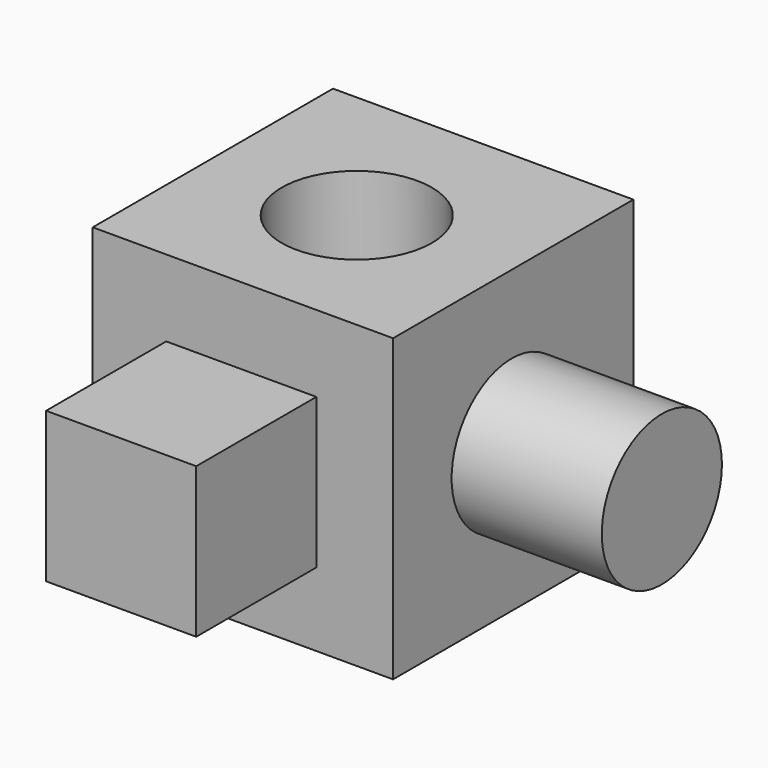
from build123d import *

# Parameters (mm, degrees)
F0_W      = 50.8
F0_H      = 50.8
F1_DEPTH  = 76.2
F2_DEPTH  = 25.4
F3_R      = 12.7
F4_DEPTH  = 25.4
F5_DEPTH  = 25.4
F6_W      = 25.4
F6_H      = 25.4
F7_DEPTH  = 25.4
F8_DEPTH  = 25.4
F9_DEPTH  = 25.4
F10_R     = 12.7
F11_DEPTH = 25.4


with BuildPart() as f1:
    # F0 (on Front) → F1 (new body)
    with BuildSketch(Plane.XZ):
        with Locations((-25.4, 25.4)):
            Rectangle(F0_W, F0_H)
    extrude(amount=F1_DEPTH)

    # F2 (cut): a face of the model
    f2_faces = [f1.faces().sort_by_distance(p)[0] for p in [
        (-25.4, -76.2, 25.4),
    ]]
    extrude(f2_faces, amount=-F2_DEPTH, mode=Mode.SUBTRACT)

    # F3 (on face) → F4 (cut)
    with BuildSketch(Plane.XY.offset(50.8)):
        with Locations((-25.7175005972, -26.3298209757)):
            Circle(F3_R)
    extrude(amount=-F4_DEPTH, mode=Mode.SUBTRACT)

    # F5 (add): a face of the model
    f5_faces = [f1.faces().sort_by_distance(p)[0] for p in [
        (-25.4, -50.8, 25.4),
    ]]
    extrude(f5_faces, amount=F5_DEPTH)

    # F6 (on face) → F7 (join)
    with BuildSketch(Plane.XZ.offset(76.2)):
        with Locations((-25.6721441031, 25.1505357817)):
            Rectangle(F6_W, F6_H)
    extrude(amount=F7_DEPTH)

    # F8 (cut): a face of the model
    f8_faces = [f1.faces().sort_by_distance(p)[0] for p in [
        (-25.4, -76.2, 0.7184204897),
    ]]
    extrude(f8_faces, amount=-F8_DEPTH, mode=Mode.SUBTRACT)

    # F9 (cut): a face of the model
    f9_faces = [f1.faces().sort_by_distance(p)[0] for p in [
        (-25.6721441031, -101.6, 25.1505357817),
    ]]
    extrude(f9_faces, amount=-F9_DEPTH, mode=Mode.SUBTRACT)

    # F10 (on face) → F11 (join)
    with BuildSketch(Plane.YZ):
        with Locations((-25.7175005972, 24.9010715634)):
            Circle(F10_R)
    extrude(amount=F11_DEPTH)


solid = f1.part
